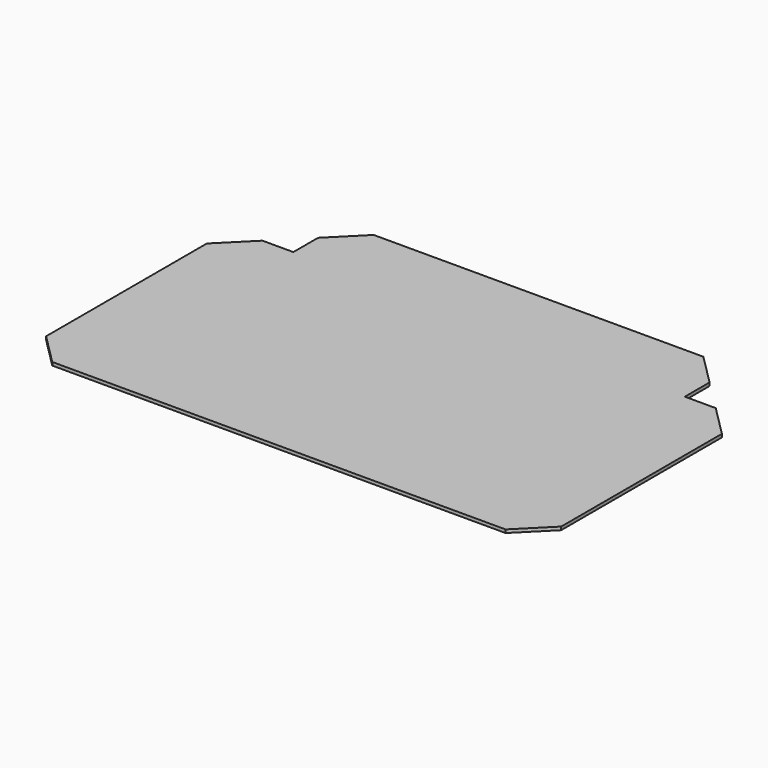
from build123d import *

# Parameters (mm, degrees)
F0_W     = 241.3
F0_H     = 161.925
F0_W_2   = 19.05
F0_H_2   = 19.05
F1_DEPTH = 1.9812


with BuildPart() as f1:
    # F0 (on Top) → F1 (new body)
    with BuildSketch(Plane.XY):
        Rectangle(F0_W, F0_H)
        with Locations((130.175, 0)):
            Rectangle(F0_W_2, F0_H)
        with Locations((-130.175, 0)):
            Rectangle(F0_W_2, F0_H)
        with Locations((0, 90.4875)):
            Rectangle(F0_W, F0_H_2)
        Polygon((139.7, 80.9625), (139.7, -80.9625), (158.75, -61.9125), (158.75, 61.9125), align=None)
        Polygon((-158.75, -61.9125), (-139.7, -80.9625), (-139.7, 80.9625), (-158.75, 61.9125), align=None)
        Polygon((-120.65, 100.0125), (120.65, 100.0125), (101.6, 119.0625), (-101.6, 119.0625), align=None)
    extrude(amount=F1_DEPTH)


solid = f1.part
